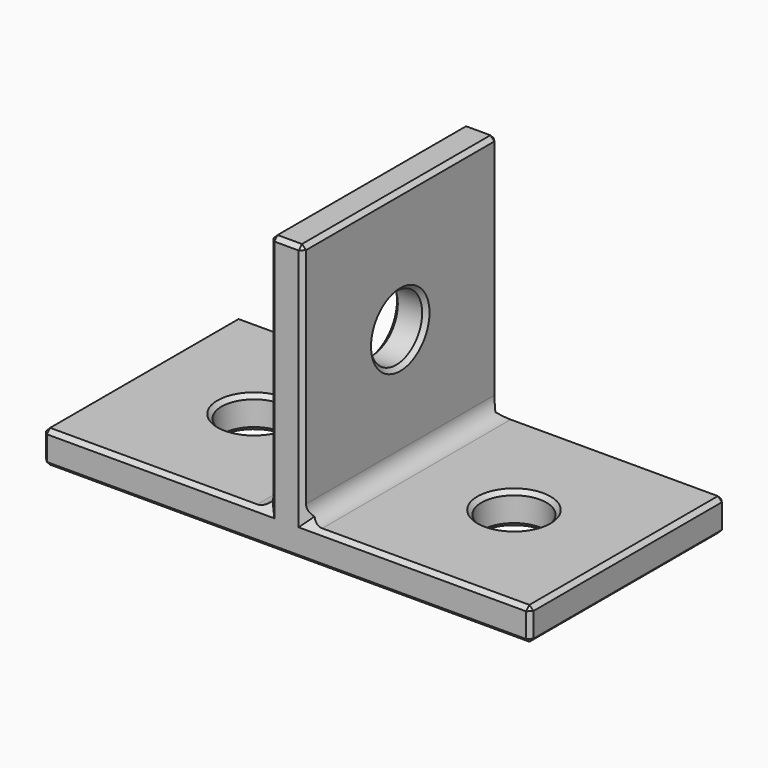
from build123d import *

# Parameters (mm, degrees)
SKETCH_W           = 30
SKETCH_H           = 15
PAD_DEPTH          = 2
SKETCH001_W        = 2
SKETCH001_H        = 15
PAD001_DEPTH       = 15
SKETCH002_R        = 2
POCKET_DEPTH       = 2
POLARPATTERN_COUNT = 2
SKETCH003_R        = 2
POCKET001_DEPTH    = 2
CHAMFER_SIZE       = 0.25
FILLET_R           = 1


with BuildPart() as part:
    # Sketch → Pad (new body)
    with BuildSketch(Plane.XY):
        Rectangle(SKETCH_W, SKETCH_H)
    extrude(amount=PAD_DEPTH)

    # Sketch001 (on Face6 of Pad) → Pad001 (join)
    with BuildSketch(Plane.XY.offset(2)):
        Rectangle(SKETCH001_W, SKETCH001_H)
    extrude(amount=PAD001_DEPTH)

    # Sketch002 (on Face5 of Pad001) → Pocket (cut)
    with BuildSketch(Plane.XY.offset(2)):
        with Locations((8, 0)):
            Circle(SKETCH002_R)
    pocket = extrude(amount=-POCKET_DEPTH, mode=Mode.SUBTRACT)

    # PolarPattern: Pocket ×2 about axis
    polarpattern_axis = Axis((0, 0, 2), (0, 0, 1))
    for i in range(1, POLARPATTERN_COUNT):
        add(pocket.rotate(polarpattern_axis, i * 360 / POLARPATTERN_COUNT), mode=Mode.SUBTRACT)

    # Sketch003 (on Face9 of PolarPattern) → Pocket001 (cut)
    with BuildSketch(Plane.YZ.offset(1)):
        with Locations((0, 9.5)):
            Circle(SKETCH003_R)
    extrude(amount=-POCKET001_DEPTH, mode=Mode.SUBTRACT)

    # Chamfer
    chamfer_edges = [part.edges().sort_by_distance(p)[0] for p in [
        (-6, 0, 2),
        (6, 0, 2),
        (-1, -2, 9.5),
        (1, -2, 9.5),
        (-1, 0, 17),
        (1, 0, 17),
        (0, -7.5, 17),
        (0, 7.5, 17),
        (-1, 7.5, 9.5),
        (1, 7.5, 9.5),
        (8, 7.5, 2),
        (-8, 7.5, 2),
        (0, 7.5, 0),
        (-15, 0, 2),
        (15, 0, 2),
        (6, 0, 0),
        (-6, 0, 0),
        (-8, -7.5, 2),
        (-1, -7.5, 9.5),
        (1, -7.5, 9.5),
        (0, -7.5, 0),
        (15, -7.5, 1),
        (8, -7.5, 2),
        (-15, -7.5, 1),
        (-15, 7.5, 1),
        (-15, 0, 0),
        (15, 7.5, 1),
        (15, 0, 0),
    ]]
    chamfer(chamfer_edges, length=CHAMFER_SIZE)

    # Fillet
    fillet_edges = [part.edges().sort_by_distance(p)[0] for p in [
        (1, 0, 2),
        (-1, 0, 2),
    ]]
    fillet(fillet_edges, radius=FILLET_R)


solid = part.part
